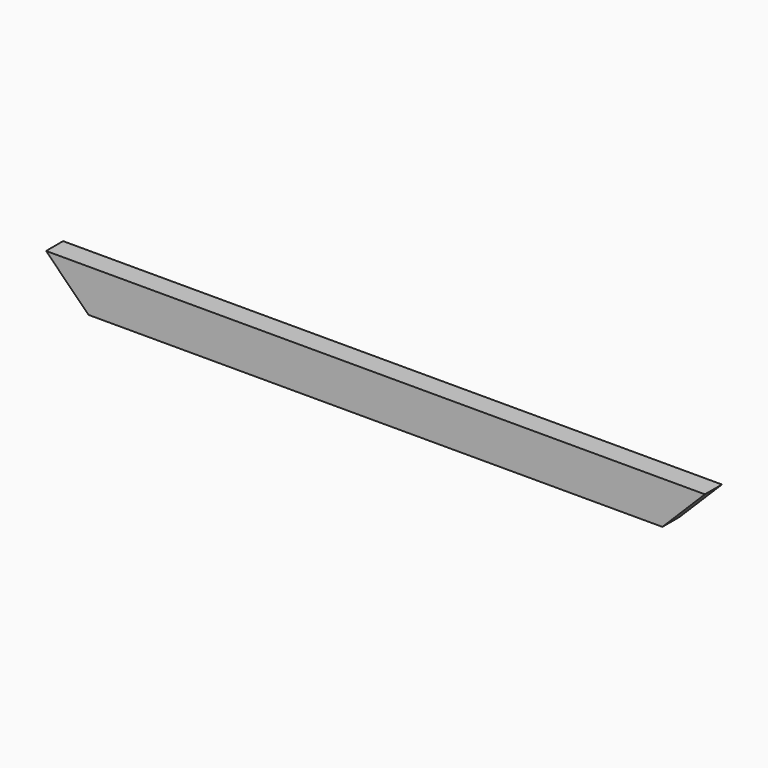
from build123d import *

# Parameters (mm, degrees)
F0_W     = 787.4
F0_H     = 50.8
F1_DEPTH = 25.4
F3_DEPTH = 25.4
F5_DEPTH = 25.4


with BuildPart() as f1:
    # F0 (on Front) → F1 (new body)
    with BuildSketch(Plane.XZ):
        with Locations((-160.468298, -86.47181)):
            Rectangle(F0_W, F0_H)
    extrude(amount=F1_DEPTH)

    # F2 (on face) → F3 (cut)
    with BuildSketch(Plane.XZ.offset(25.4)):
        Polygon((182.431702, -111.87181), (233.231702, -111.87181), (233.231702, -61.07181), align=None)
    extrude(amount=-F3_DEPTH, mode=Mode.SUBTRACT)

    # F4 (on face) → F5 (cut)
    with BuildSketch(Plane.XZ.offset(25.4)):
        Polygon((-554.168298, -61.07181), (-554.168298, -111.87181), (-503.368298, -111.87181), align=None)
    extrude(amount=-F5_DEPTH, mode=Mode.SUBTRACT)


solid = f1.part
